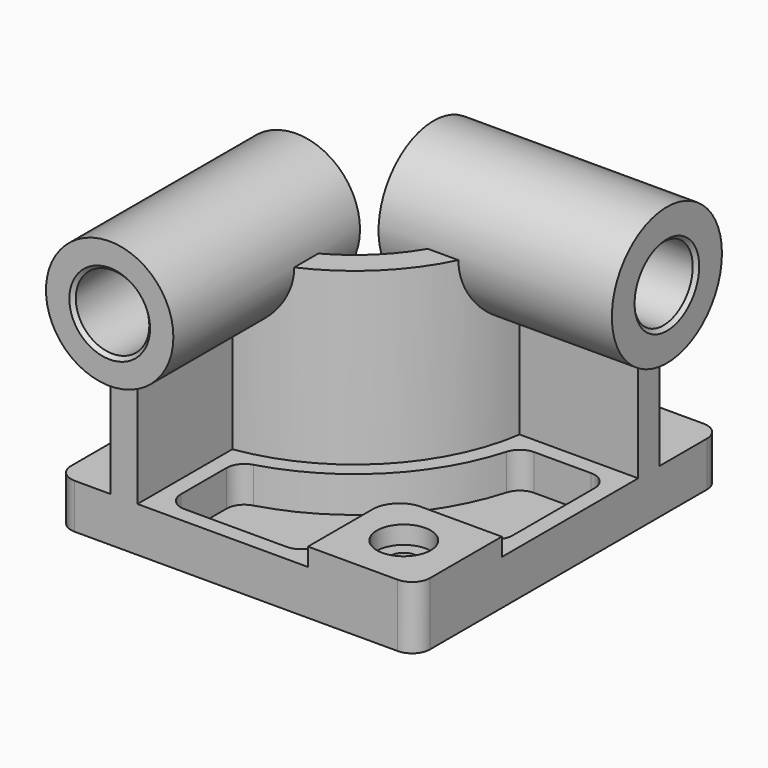
from build123d import *

# Parameters (mm, degrees)
F0_W      = 200
F0_H      = 213
F1_DEPTH  = 25
F3_DEPTH  = 95
F5_DEPTH  = 10
F6_R      = 15
F7_DEPTH  = 10
F8_R      = 7.5
F9_DEPTH  = 25.001
F11_DEPTH = 20
F13_R     = 35.5
F14_DEPTH = 130
F15_R     = 20.5
F16_DEPTH = 223.001
F18_R     = 38.3333333333
F19_DEPTH = 130
F20_R     = 20.5
F21_DEPTH = 210.001
F22_R     = 10
F23_SIZE2 = 2
F23_SIZE  = 2


with BuildPart() as f1:
    # F0 (on Top) → F1 (new body)
    with BuildSketch(Plane.XY):
        with Locations((100, 106.5)):
            Rectangle(F0_W, F0_H)
    extrude(amount=F1_DEPTH)

    # F2 (on face) → F3 (join)
    with BuildSketch(Plane.XY.offset(25)):
        with BuildLine():
            Line((30, 80), (30, 0))
            Line((30, 0), (45, 0))
            Line((45, 0), (45, 66.0769515459))
            ThreePointArc((45, 66.0769515459), (104.2462120246, 95.7537879754), (133.9230484541, 155))
            Line((133.9230484541, 155), (200, 155))
            Line((200, 155), (200, 170))
            Line((200, 170), (120, 170))
            ThreePointArc((120, 170), (93.6396103068, 106.3603896932), (30, 80))
        make_face()
    extrude(amount=F3_DEPTH)

    # F4 (on face) → F5 (join)
    with BuildSketch(Plane.XY.offset(25)):
        with BuildLine():
            Line((200, 60), (155, 60))
            ThreePointArc((155, 60), (144.3933982822, 55.6066017178), (140, 45))
            Line((140, 45), (140, 0))
            Line((140, 0), (200, 0))
            Line((200, 0), (200, 60))
        make_face()
    extrude(amount=F5_DEPTH)

    # F6 (on face) → F7 (cut)
    with BuildSketch(Plane.XY.offset(35)):
        with Locations((168.9159870148, 30.6017436087)):
            Circle(F6_R)
    extrude(amount=-F7_DEPTH, mode=Mode.SUBTRACT)

    # F8 (on face) → F9 (cut, through all)
    with BuildSketch(Plane.XY.offset(25)):
        with Locations((168.9159870148, 30.6017436087)):
            Circle(F8_R)
    extrude(amount=-F9_DEPTH, mode=Mode.SUBTRACT)

    # F10 (on face) → F11 (cut)
    with BuildSketch(Plane.XY.offset(25)):
        with BuildLine():
            Line((181, 146), (149.2476414861, 146))
            ThreePointArc((149.2476414861, 146), (143.2234965193, 143.981834214), (139.630896205, 138.7419354839))
            ThreePointArc((139.630896205, 138.7419354839), (110.6101730553, 89.3898269447), (61.2580645161, 60.369103795))
            ThreePointArc((61.2580645161, 60.369103795), (56.018165786, 56.7765034807), (54, 50.7523585139))
            Line((54, 50.7523585139), (54, 19))
            ThreePointArc((54, 19), (56.9289321881, 11.9289321881), (64, 9))
            Line((64, 9), (121, 9))
            ThreePointArc((121, 9), (128.0710678119, 11.9289321881), (131, 19))
            Line((131, 19), (131, 45))
            ThreePointArc((131, 45), (138.0294372515, 61.9705627485), (155, 69))
            Line((155, 69), (181, 69))
            ThreePointArc((181, 69), (188.0710678119, 71.9289321881), (191, 79))
            Line((191, 79), (191, 136))
            ThreePointArc((191, 136), (188.0710678119, 143.0710678119), (181, 146))
        make_face()
    extrude(amount=-F11_DEPTH, mode=Mode.SUBTRACT)

    # F13 (on offset) → F14 (join)
    with BuildSketch(Plane.XZ.offset(10)):
        with Locations((37.5, 120)):
            Circle(F13_R)
    extrude(amount=-F14_DEPTH)

    # F15 (on face) → F16 (cut, through all)
    with BuildSketch(Plane.XZ.offset(10)):
        with Locations((37.5, 120)):
            Circle(F15_R)
    extrude(amount=-F16_DEPTH, mode=Mode.SUBTRACT)

    # F18 (on offset) → F19 (join)
    with BuildSketch(Plane.YZ.offset(210)):
        with Locations((162.5, 120)):
            Circle(F18_R)
    extrude(amount=-F19_DEPTH)

    # F20 (on face) → F21 (cut, through all)
    with BuildSketch(Plane.YZ.offset(210)):
        with Locations((162.5, 120)):
            Circle(F20_R)
    extrude(amount=-F21_DEPTH, mode=Mode.SUBTRACT)

    # F22
    f22_edges = [f1.edges().sort_by_distance(p)[0] for p in [
        (0, 0, 12.5),
        (200, 0, 17.5),
        (200, 213, 12.5),
        (0, 213, 12.5),
    ]]
    fillet(f22_edges, radius=F22_R)

    # F23
    f23_edges = [f1.edges().sort_by_distance(p)[0] for p in [
        (17, -10, 120),
        (210, 142, 120),
        (17, 120, 120),
        (80, 142, 120),
    ]]
    chamfer(f23_edges, length=F23_SIZE, length2=F23_SIZE2)


solid = f1.part
